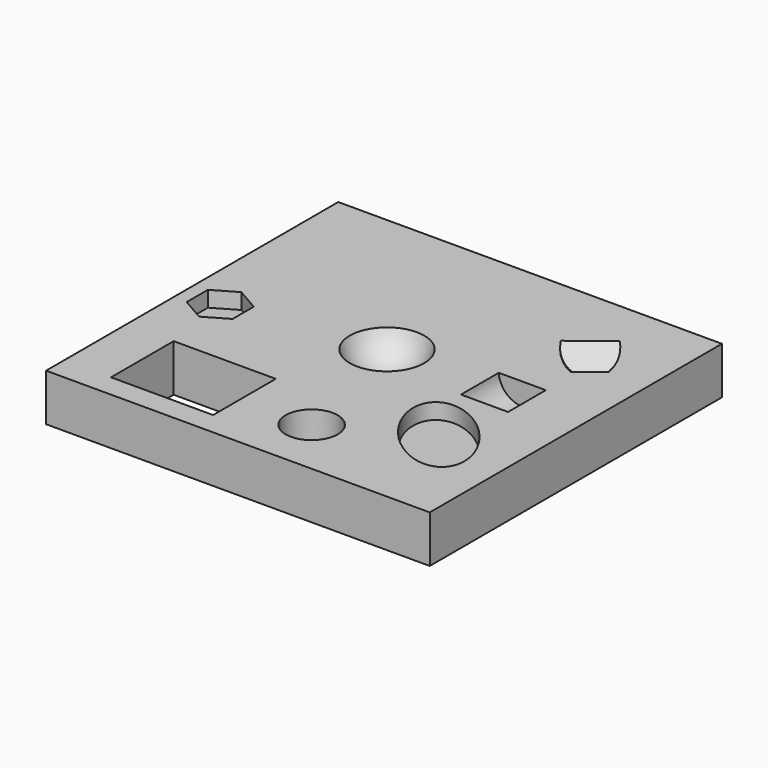
from build123d import *

# Parameters (mm, degrees)
CYLINDER001_R               = 15
CYLINDER001_DEPTH           = 30
CYLINDER001_ROLL_ANGLE      = 57.515834
CYLINDER001_PITCH_ANGLE     = -33.522488
CYLINDER001_PLACEMENT_ANGLE = 57.515834
CYLINDER_R                  = 15
CYLINDER_DEPTH              = 30
SKETCH_W                    = 243.943557
SKETCH_H                    = 232.19397
SKETCH_R                    = 16.531402
SKETCH_W_2                  = 64.902409
SKETCH_H_2                  = 49.795826
PAD_DEPTH                   = 30
POCKET_DEPTH                = 10


with BuildPart() as cylinder001:
    # Cylinder001 → Cylinder001 (new body)
    with BuildSketch(Plane.XY):
        Circle(CYLINDER001_R)
    extrude(amount=CYLINDER001_DEPTH)


with BuildPart() as cylinder001_1:
    # Cylinder001 roll: moved
    add(cylinder001.part.rotate(Axis((0, 0, 0), (1, 0, 0)), CYLINDER001_ROLL_ANGLE))


with BuildPart() as cylinder001_2:
    # Cylinder001 pitch: moved
    add(cylinder001_1.part.rotate(Axis((0, 0, 0), (0, 1, 0)), CYLINDER001_PITCH_ANGLE))


with BuildPart() as cylinder001_3:
    # Cylinder001 placement: moved
    add(cylinder001_2.part.moved(Location((74, 69, 27))).rotate(Axis((74, 69, 27), (0, 0, 1)), CYLINDER001_PLACEMENT_ANGLE))


with BuildPart() as cylinder:
    # Cylinder → Cylinder (new body)
    with BuildSketch(Plane(origin=(74, 15, 31), x_dir=(1, 0, 0), z_dir=(0, -1, 0))):
        Circle(CYLINDER_R)
    extrude(amount=CYLINDER_DEPTH)


with BuildPart() as sphere:
    # Sphere → Sphere (revolve)
    with BuildSketch(Plane(origin=(0, 0, 38), x_dir=(1, 0, 0), z_dir=(0, -1, 0))):
        with BuildLine():
            ThreePointArc((0, -25), (25, 0), (0, 25))
            Line((0, 25), (0, -25))
        make_face()
    revolve(axis=Axis((0, 0, 38), (0, 0, 1)))


with BuildPart() as cut002:
    # Sketch → Pad (new body)
    with BuildSketch(Plane.XY):
        with Locations((4.089295, -7.505798)):
            Rectangle(SKETCH_W, SKETCH_H)
        with Locations((21.433901, -86.675552)):
            Circle(SKETCH_R, mode=Mode.SUBTRACT)
        with Locations((-55.777578, -84.157782)):
            Rectangle(SKETCH_W_2, SKETCH_H_2, mode=Mode.SUBTRACT)
    extrude(amount=PAD_DEPTH)

    # Sketch001 (on Face11 of Pad) → Pocket (cut)
    with BuildSketch(Plane.XY.offset(30)):
        Polygon((-80.299553, -22.364969), (-80.304949, -5.533931), (-94.883753, 2.876915), (-109.457161, -5.543277), (-109.451765, -22.374315), (-94.872961, -30.785161), align=None)
        with BuildLine():
            add(Edge.make_bspline(
                [(100.814049, -81.240913), (126.605952, -57.691792), (78.384447, -30.776448), (30.162942, -3.861103), (52.592544, -54.325568), (75.022146, -104.790034), (100.814049, -81.240913)],
                knots=[0, 0, 0, 2.094395, 2.094395, 4.18879, 4.18879, 6.283185, 6.283185, 6.283185], degree=2, weights=[1, 0.5, 1, 0.5, 1, 0.5, 1]))
        make_face()
    extrude(amount=-POCKET_DEPTH, mode=Mode.SUBTRACT)

    # Cut: cut Sphere
    add(sphere.part, mode=Mode.SUBTRACT)

    # Cut001: cut Cylinder
    add(cylinder.part, mode=Mode.SUBTRACT)

    # Cut002: cut Cylinder001
    add(cylinder001_3.part, mode=Mode.SUBTRACT)


solid = cut002.part
